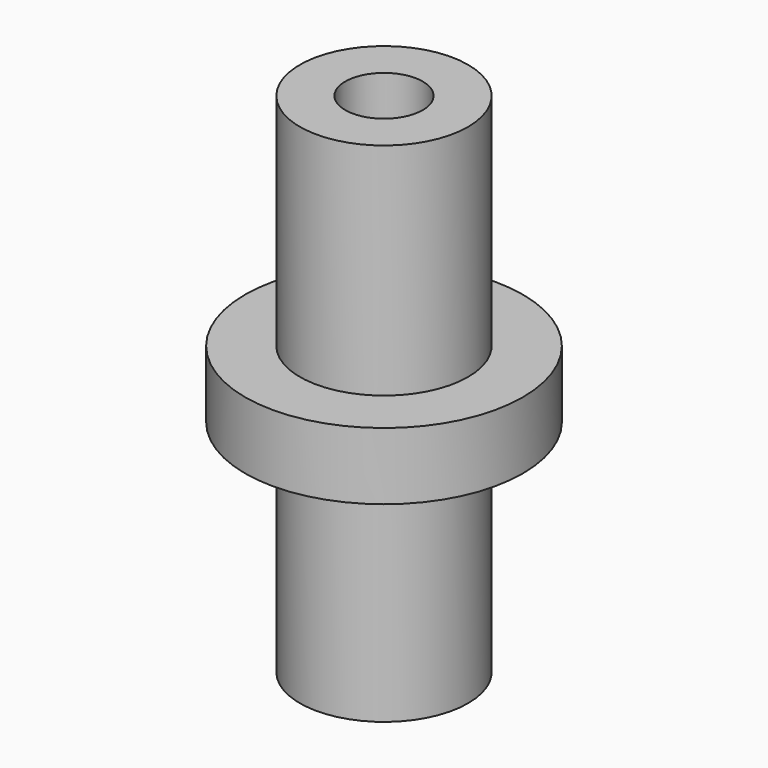
from build123d import *

# Parameters (mm, degrees)
F0_R     = 3.7338
F1_DEPTH = 1.8034
F2_R     = 2.2606
F3_DEPTH = 5.9182
F4_R     = 2.2606
F5_DEPTH = 5.9182
F6_R     = 1.0414
F7_DEPTH = 25.4


with BuildPart() as f1:
    # F0 (on Top) → F1 (new body)
    with BuildSketch(Plane.XY):
        Circle(F0_R)
    extrude(amount=F1_DEPTH)

    # F2 (on face) → F3 (join)
    with BuildSketch(Plane.XY.offset(1.8034)):
        Circle(F2_R)
    extrude(amount=F3_DEPTH)

    # F4 (on face) → F5 (join)
    with BuildSketch(Plane(origin=(0, 0, 0), x_dir=(1, 0, 0), z_dir=(0, 0, -1))):
        Circle(F4_R)
    extrude(amount=F5_DEPTH)

    # F6 (on face) → F7 (cut)
    with BuildSketch(Plane(origin=(0, 0, -5.9182), x_dir=(1, 0, 0), z_dir=(0, 0, -1))):
        Circle(F6_R)
    extrude(amount=-F7_DEPTH, mode=Mode.SUBTRACT)


solid = f1.part
